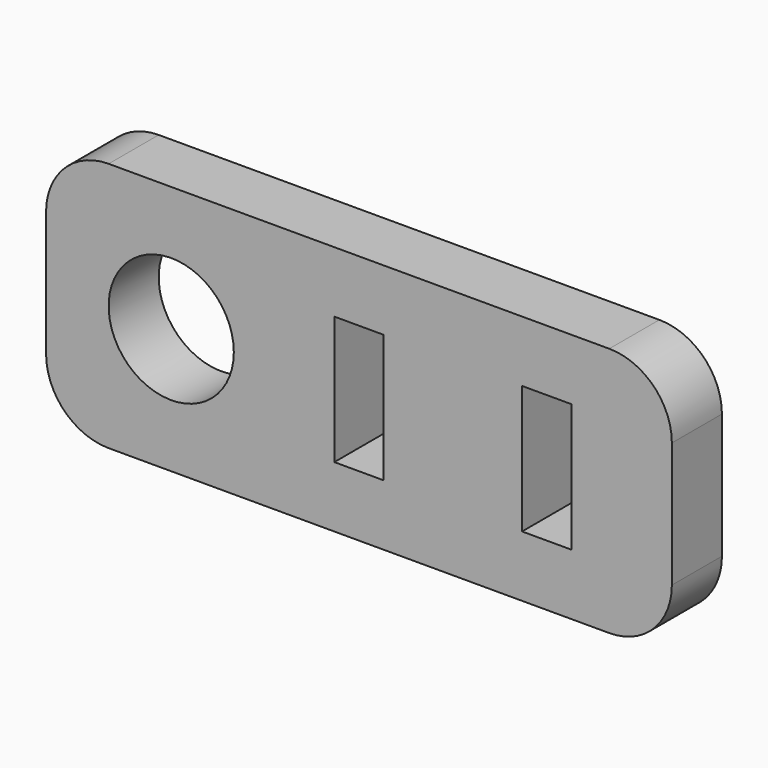
from build123d import *

# Parameters (mm, degrees)
F0_W     = 31.75
F0_H     = 12.7
F0_R     = 3.175
F0_W_2   = 2.5
F0_H_2   = 6.5
F1_DEPTH = 3.175
F2_R     = 3.175


with BuildPart() as f1:
    # F0 (on Front) → F1 (new body)
    with BuildSketch(Plane.XZ):
        Rectangle(F0_W, F0_H)
        with Locations((-9.525, 0)):
            Circle(F0_R, mode=Mode.SUBTRACT)
        Rectangle(F0_W_2, F0_H_2, mode=Mode.SUBTRACT)
        with Locations((9.525, 0)):
            Rectangle(F0_W_2, F0_H_2, mode=Mode.SUBTRACT)
    extrude(amount=F1_DEPTH)

    # F2
    f2_edges = [f1.edges().sort_by_distance(p)[0] for p in [
        (15.875, -1.5875, -6.35),
        (15.875, -1.5875, 6.35),
        (-15.875, -1.5875, -6.35),
        (-15.875, -1.5875, 6.35),
    ]]
    fillet(f2_edges, radius=F2_R)


solid = f1.part
